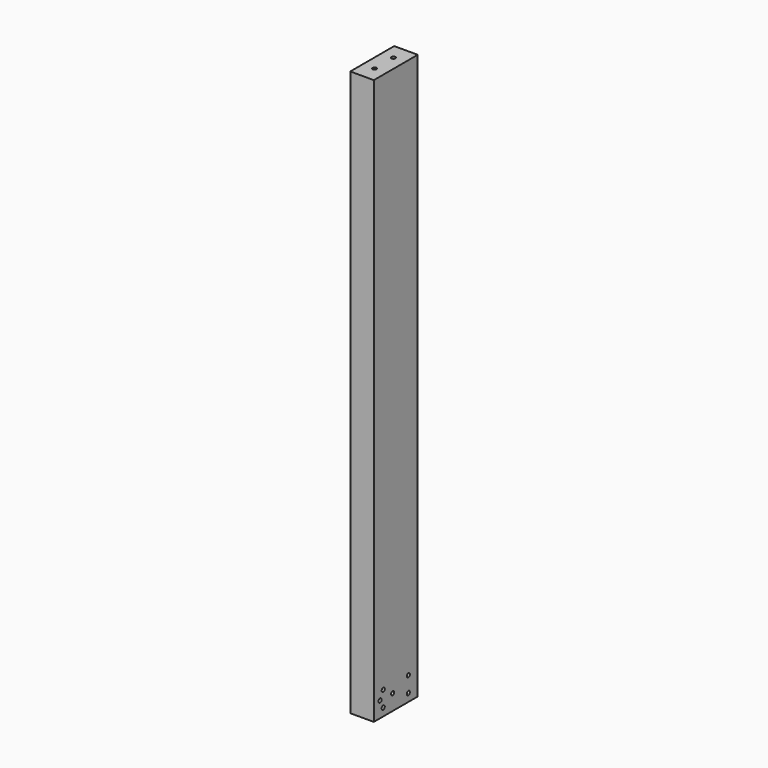
from build123d import *

# Parameters (mm, degrees)
F0_W     = 88.9
F0_H     = 914.4
F1_DEPTH = 38.1
F3_D     = 6.35
F5_D     = 6.35
F5_DEPTH = 12.7
F5_TIP   = 1.9077324654
F7_D     = 6.35
F7_DEPTH = 12.7
F7_TIP   = 1.9077324654
F9_D     = 6.35
F9_DEPTH = 12.7
F9_TIP   = 1.9077324654


with BuildPart() as f1:
    # F0 (on Right) → F1 (new body)
    with BuildSketch(Plane.YZ):
        with Locations((44.45, -457.2)):
            Rectangle(F0_W, F0_H)
    extrude(amount=F1_DEPTH)

    # F3 (through all)
    with Locations(Plane.YZ.offset(38.1)):
        with Locations((19.05, -876.3), (19.05, -901.7), (69.85, -876.3), (69.85, -901.7)):
            Hole(F3_D / 2)

    # F5
    with Locations(Plane(origin=(0, 0, 0), x_dir=(0, -1, 0), z_dir=(-1, 0, 0))):
        with Locations((-76.2, -889), (-50.8, -889)):
            Hole(F5_D / 2, depth=F5_DEPTH)
            with Locations((0, 0, -(F5_DEPTH + F5_TIP / 2))):  # 118° drill point
                Cone(0, F5_D / 2, F5_TIP, mode=Mode.SUBTRACT)

    # F7
    with Locations(Plane.YZ.offset(38.1)):
        with Locations((12.7, -889), (38.1, -889)):
            Hole(F7_D / 2, depth=F7_DEPTH)
            with Locations((0, 0, -(F7_DEPTH + F7_TIP / 2))):  # 118° drill point
                Cone(0, F7_D / 2, F7_TIP, mode=Mode.SUBTRACT)

    # F9
    with Locations(Plane.XY):
        with Locations((19.05, 63.5), (19.05, 25.4)):
            Hole(F9_D / 2, depth=F9_DEPTH)
            with Locations((0, 0, -(F9_DEPTH + F9_TIP / 2))):  # 118° drill point
                Cone(0, F9_D / 2, F9_TIP, mode=Mode.SUBTRACT)


solid = f1.part
